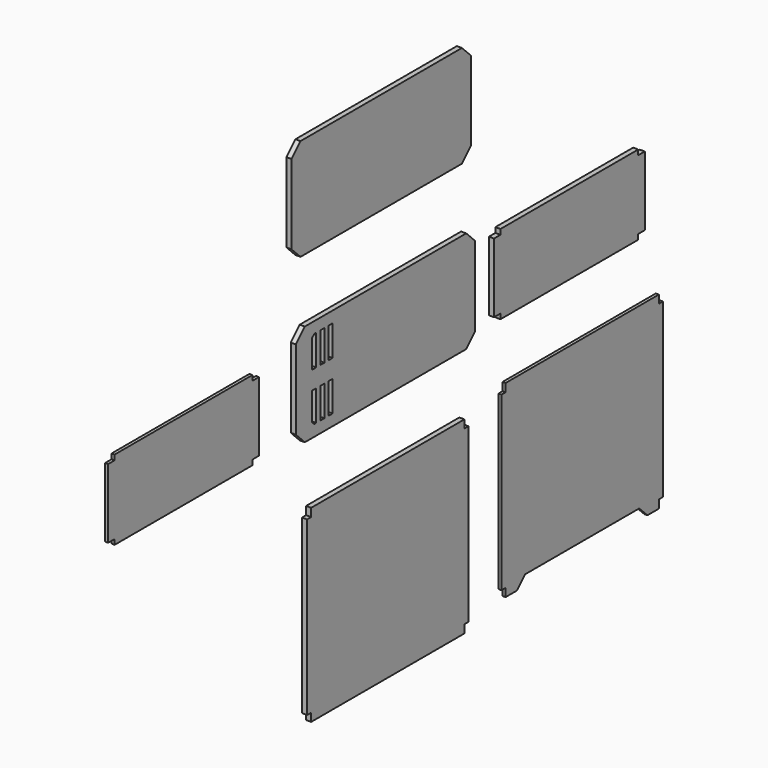
from build123d import *

# Parameters (mm, degrees)
F1_DEPTH  = 5
F3_DEPTH  = 3
F5_DEPTH  = 5
F7_DEPTH  = 5
F9_DEPTH  = 5
F11_DEPTH = 3
F13_DEPTH = 25
F14_W     = 5
F14_H     = 30
F15_DEPTH = 25
F16_SIZE  = 2.5


with BuildPart() as f1:
    # F0 (on Right) → F1 (new body)
    with BuildSketch(Plane.YZ):
        Polygon((118.508511, 57.991617), (107.508511, 68.991617), (-90.491489, 68.991617), (-101.491489, 57.991617), (-101.491489, -20.008383), (-90.491489, -31.008383), (107.508511, -31.008383), (118.508511, -20.008383), align=None)
    extrude(amount=F1_DEPTH)

    # F14 (on face) → F15 (cut)
    with BuildSketch(Plane.YZ.offset(5)):
        with Locations((-78.991489, 42.991617)):
            Rectangle(F14_W, F14_H)
        with Locations((-78.991489, -5.008383)):
            Rectangle(F14_W, F14_H)
        with Locations((-68.991489, 42.991617)):
            Rectangle(F14_W, F14_H)
        with Locations((-68.991489, -5.008383)):
            Rectangle(F14_W, F14_H)
        with Locations((-58.991489, 42.991617)):
            Rectangle(F14_W, F14_H)
        with Locations((-58.991489, -5.008383)):
            Rectangle(F14_W, F14_H)
    extrude(amount=-F15_DEPTH, mode=Mode.SUBTRACT)

    # F16
    f16_edges = [f1.edges().sort_by_distance(p)[0] for p in [
        (2.5, -81.491489, -20.008383),
        (2.5, -81.491489, 57.991617),
    ]]
    chamfer(f16_edges, length=F16_SIZE)


with BuildPart() as f3:
    # F2 (on Right) → F3 (new body)
    with BuildSketch(Plane.YZ):
        Polygon((-152.250041, 51.551747), (-321.250041, 51.551747), (-321.250041, 46.551747), (-329.250041, 46.551747), (-329.250041, -21.448253), (-321.250041, -21.448253), (-321.250041, -26.448253), (-152.250041, -26.448253), (-152.250041, -21.448253), (-144.250041, -21.448253), (-144.250041, 46.551747), (-152.250041, 46.551747), align=None)
    extrude(amount=F3_DEPTH)


with BuildPart() as f5:
    # F4 (on Right) → F5 (new body)
    with BuildSketch(Plane.YZ):
        Polygon((113.192388, 220.327366), (102.192388, 231.327366), (-95.807612, 231.327366), (-106.807612, 220.327366), (-106.807612, 142.327366), (-95.807612, 131.327366), (102.192388, 131.327366), (113.192388, 142.327366), align=None)
    extrude(amount=F5_DEPTH)


with BuildPart() as f7:
    # F6 (on Right) → F7 (new body)
    with BuildSketch(Plane.YZ):
        Polygon((318.516881, 55.696888), (149.516881, 55.696888), (149.516881, 50.696888), (141.516881, 50.696888), (141.516881, -17.303112), (149.516881, -17.303112), (149.516881, -22.303112), (318.516881, -22.303112), (318.516881, -17.303112), (326.516881, -17.303112), (326.516881, 50.696888), (318.516881, 50.696888), align=None)
    extrude(amount=F7_DEPTH)


with BuildPart() as f9:
    # F8 (on Right) → F9 (new body)
    with BuildSketch(Plane.YZ):
        Polygon((110.277842, -267.775178), (110.277842, -98.775178), (105.277842, -98.775178), (105.277842, -90.775178), (-82.722158, -90.775178), (-82.722158, -98.775178), (-87.722158, -98.775178), (-87.722158, -267.775178), (-82.722158, -267.775178), (-82.722158, -275.775178), (105.277842, -275.775178), (105.277842, -267.775178), align=None)
    extrude(amount=F9_DEPTH)


with BuildPart() as f11:
    # F10 (on Right) → F11 (new body)
    with BuildSketch(Plane.YZ):
        Polygon((351.255145, -258.595392), (351.255145, -89.595392), (346.255145, -89.595392), (346.255145, -81.595392), (158.255145, -81.595392), (158.255145, -89.595392), (153.255145, -89.595392), (153.255145, -258.595392), (158.255145, -258.595392), (158.255145, -266.595392), (346.255145, -266.595392), (346.255145, -258.595392), align=None)
    extrude(amount=F11_DEPTH)

    # F12 (on face) → F13 (cut)
    with BuildSketch(Plane.YZ.offset(3)):
        Polygon((182.255145, -256.595392), (172.255145, -266.595392), (332.255145, -266.595392), (322.255145, -256.595392), align=None)
    extrude(amount=-F13_DEPTH, mode=Mode.SUBTRACT)


solid = Compound([f1.part, f3.part, f5.part, f7.part, f9.part, f11.part])
